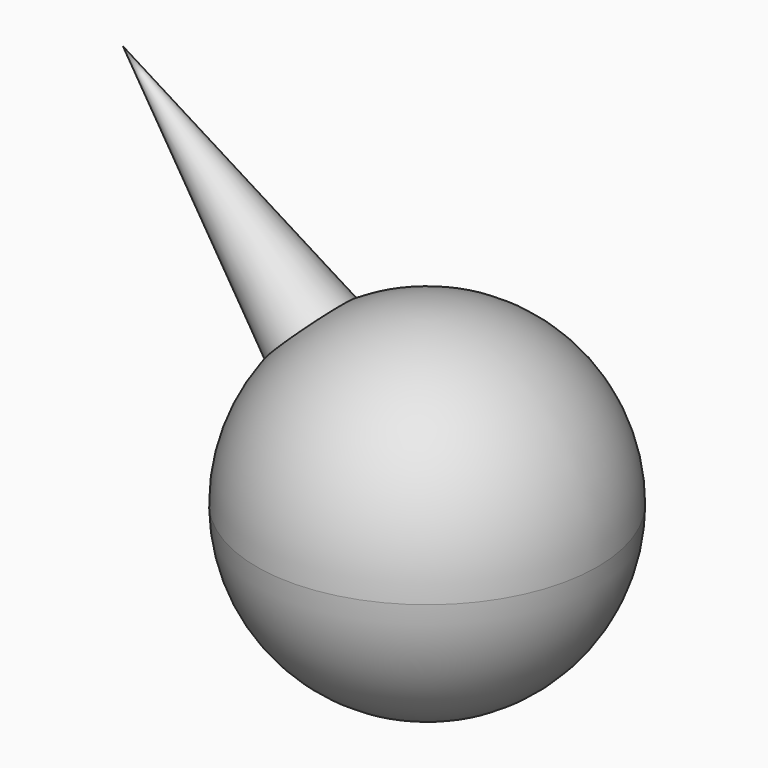
from build123d import *


with BuildPart() as f1:
    # F0 (on Front) → F1 (revolve)
    with BuildSketch(Plane.XZ):
        with BuildLine():
            ThreePointArc((0, -10), (7.0710678119, -7.0710678119), (10, 0))
            ThreePointArc((10, 0), (7.0710678119, 7.0710678119), (0, 10))
            Line((0, 10), (0, 5))
            Line((0, 5), (0, 0))
            Line((0, 0), (0, -10))
        make_face()
    revolve(axis=Axis((0, 0, 0), (0, 0, -1)))

    # F0 (on Front) → F2 (revolve)
    with BuildSketch(Plane.XZ):
        with BuildLine():
            ThreePointArc((-7.0710678119, 7.0710678119), (-6.1086023889, 7.9173844705), (-5.0457975777, 8.6336508387))
            Line((-5.0457975777, 8.6336508387), (-17.8656985082, 17.8656985082))
            Line((-17.8656985082, 17.8656985082), (-7.0710678119, 7.0710678119))
        make_face()
    revolve(axis=Axis((-8.9328492541, 0, 8.9328492541), (-0.7071067812, 0, 0.7071067812)))


solid = f1.part
